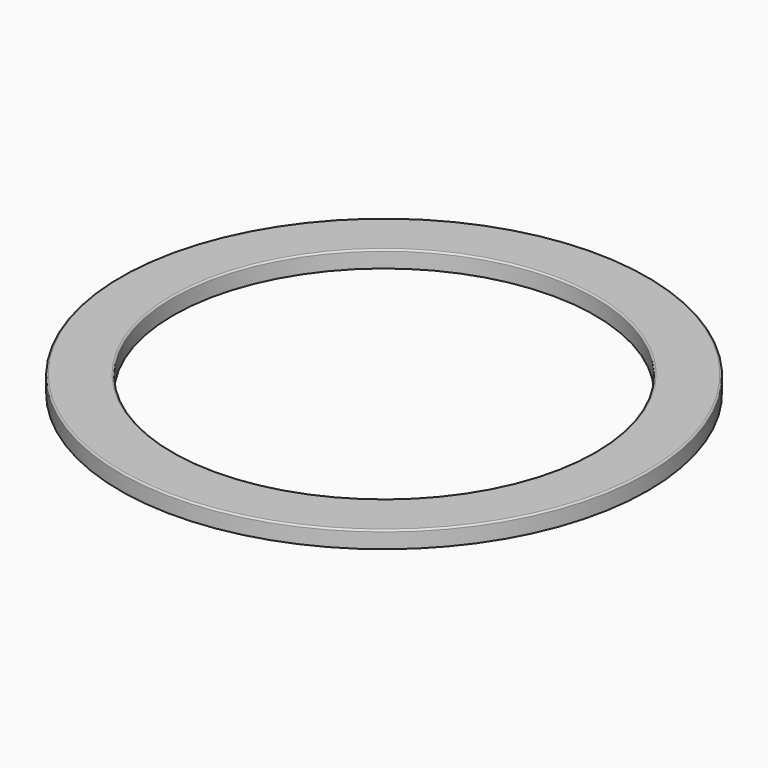
from build123d import *

# Parameters (mm, degrees)
F0_R     = 31.3
F1_DEPTH = 2
F2_R     = 25
F3_DEPTH = 2
F4_R     = 0.2


with BuildPart() as f1:
    # F0 (on Top) → F1 (new body)
    with BuildSketch(Plane.XY):
        Circle(F0_R)
    extrude(amount=F1_DEPTH)

    # F2 (on face) → F3 (cut)
    with BuildSketch(Plane.XY.offset(2)):
        Circle(F2_R)
    extrude(amount=-F3_DEPTH, mode=Mode.SUBTRACT)

    # F4
    f4_edges = [f1.edges().sort_by_distance(p)[0] for p in [
        (-31.3, 0, 2),
        (-25, 0, 2),
    ]]
    fillet(f4_edges, radius=F4_R)


solid = f1.part
